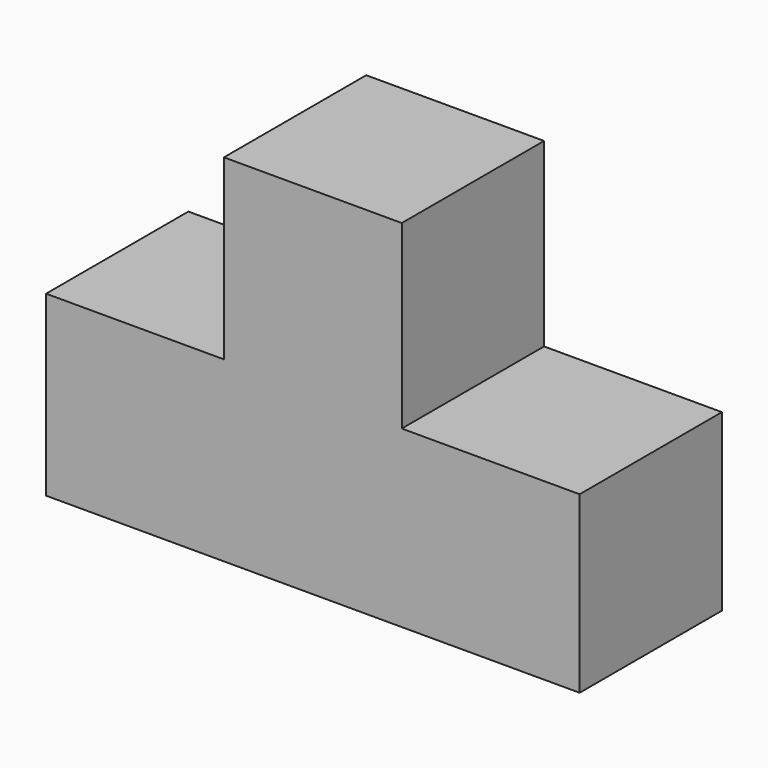
from build123d import *

# Parameters (mm, degrees)
F0_W     = 25.4
F0_H     = 25.4
F0_H_2   = 24.961168
F1_DEPTH = 25.4


with BuildPart() as f1:
    # F0 (on Front) → F1 (new body)
    with BuildSketch(Plane.XZ):
        with Locations((-38.1, 12.7)):
            Rectangle(F0_W, F0_H)
        Polygon((-25.4, 0), (0, 0), (0, 24.961168), (0, 25.4), (-25.4, 25.4), align=None)
        with Locations((12.7, 12.480584)):
            Rectangle(F0_W, F0_H_2)
        with Locations((-12.7, 38.1)):
            Rectangle(F0_W, F0_H)
    extrude(amount=F1_DEPTH)


solid = f1.part
